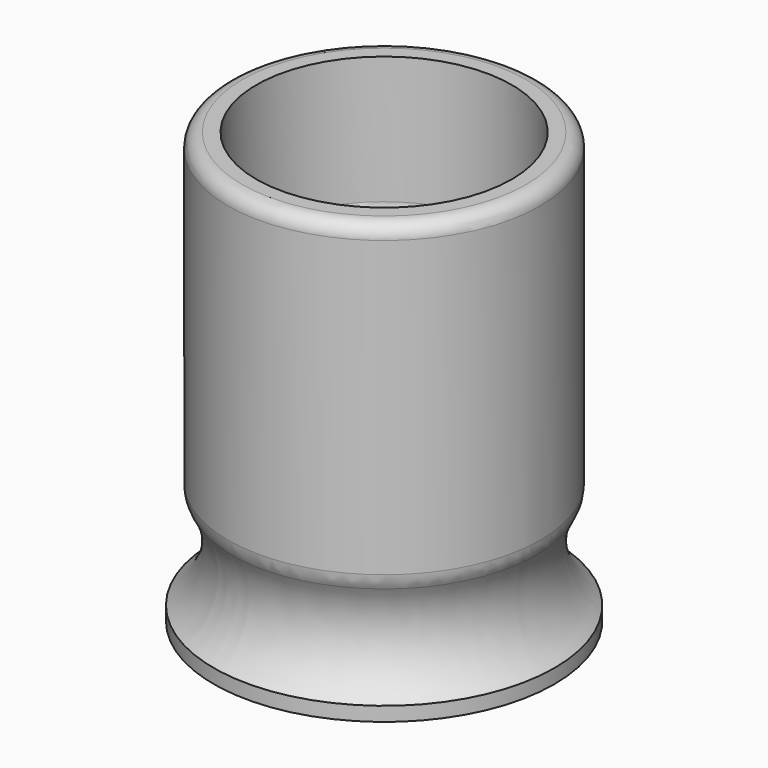
from build123d import *

# Parameters (mm, degrees)
FILLET001_R  = 1
SKETCH010_R  = 2.75
POCKET_DEPTH = 30.326
FILLET002_R  = 2


with BuildPart() as part:
    # Sketch → Revolution (revolve)
    with BuildSketch(Plane.XZ):
        with BuildLine():
            Line((0, 0), (12, 0))
            Line((12, 0), (12, 1))
            ThreePointArc((11, 8), (10.050253, 4.292893), (12, 1))
            Line((11, 30.325), (11, 8))
            Line((9, 30.325), (11, 30.325))
            Line((9, 20.325), (9, 30.325))
            Line((7, 20.325), (9, 20.325))
            Line((7, 20.325), (7, 18.325))
            Line((0, 20.325), (7, 18.325))
            Line((0, 0), (0, 20.325))
        make_face()
    revolve(axis=Axis((0, 0, 0), (0, 0, 1)))

    # Fillet001
    fillet001_edges = [part.edges().sort_by_distance(p)[0] for p in [
        (-11, 0, 30.325),
        (-7, 0, 18.325),
        (-9, 0, 20.325),
    ]]
    fillet(fillet001_edges, radius=FILLET001_R)

    # Sketch010 (on Face4 of Fillet001) → Pocket (cut, through all)
    with BuildSketch(Plane(origin=(0, 0, 30.325), x_dir=(-1, 0, 0), z_dir=(0, 0, 1))):
        Circle(SKETCH010_R)
    extrude(amount=-POCKET_DEPTH, mode=Mode.SUBTRACT)

    # Fillet002
    fillet002_edges = [part.edges().sort_by_distance(p)[0] for p in [
        (-11, 0, 8),
    ]]
    fillet(fillet002_edges, radius=FILLET002_R)


solid = part.part
